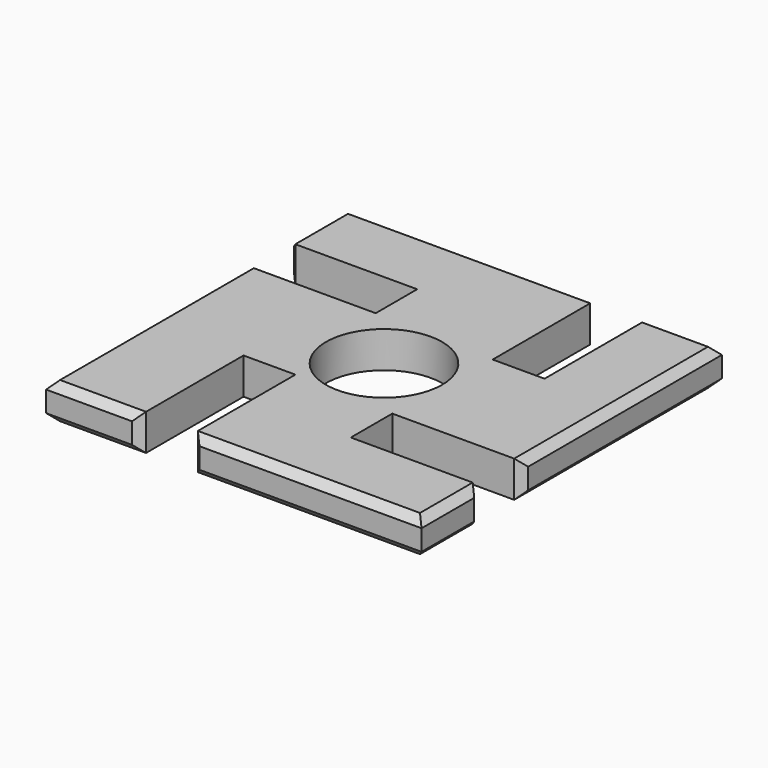
from build123d import *

# Parameters (mm, degrees)
F0_R     = 11.2
F1_DEPTH = 3.5
F2_SIZE  = 1.5


with BuildPart() as f1:
    # F0 (on Top) → F1 (new body, symmetric)
    with BuildSketch(Plane.XY):
        Polygon((-36.2, 12), (-36.2, 0), (-36.2, -36.2), (-18.1259922683, -36.2), (-18.1259922683, -11.2), (-8.1259922683, -11.2), (-8.1259922683, -36.2), (0, -36.2), (36.2, -36.2), (36.2, -22), (11.2, -22), (11.2, -12), (36.2, -12), (36.2, 0), (36.2, 36.2), (22, 36.2), (22, 11.2), (12, 11.2), (12, 36.2), (0, 36.2), (-36.2, 36.2), (-36.2, 22), (-11.2, 22), (-11.2, 12), align=None)
        Circle(F0_R, mode=Mode.SUBTRACT)
    extrude(amount=F1_DEPTH, both=True)

    # F2
    f2_edges = [f1.edges().sort_by_distance(p)[0] for p in [
        (14.037004, -36.2, 3.5),
        (36.2, -29.1, 3.5),
        (36.2, 12.1, 3.5),
        (-27.162996, -36.2, 3.5),
        (-36.2, -12.1, 3.5),
        (-36.2, 29.1, 3.5),
        (-12.1, 36.2, 3.5),
        (29.1, 36.2, 3.5),
        (36.2, -29.1, -3.5),
        (14.037004, -36.2, -3.5),
        (36.2, 12.1, -3.5),
        (29.1, 36.2, -3.5),
        (-12.1, 36.2, -3.5),
        (-36.2, 29.1, -3.5),
        (-36.2, -12.1, -3.5),
        (-27.162996, -36.2, -3.5),
        (-8.125992, -36.2, 0),
        (-18.125992, -36.2, 0),
        (36.2, -22, 0),
        (36.2, -12, 0),
        (22, 36.2, 0),
        (12, 36.2, 0),
        (-36.2, 22, 0),
        (-36.2, 12, 0),
    ]]
    chamfer(f2_edges, length=F2_SIZE)


solid = f1.part
